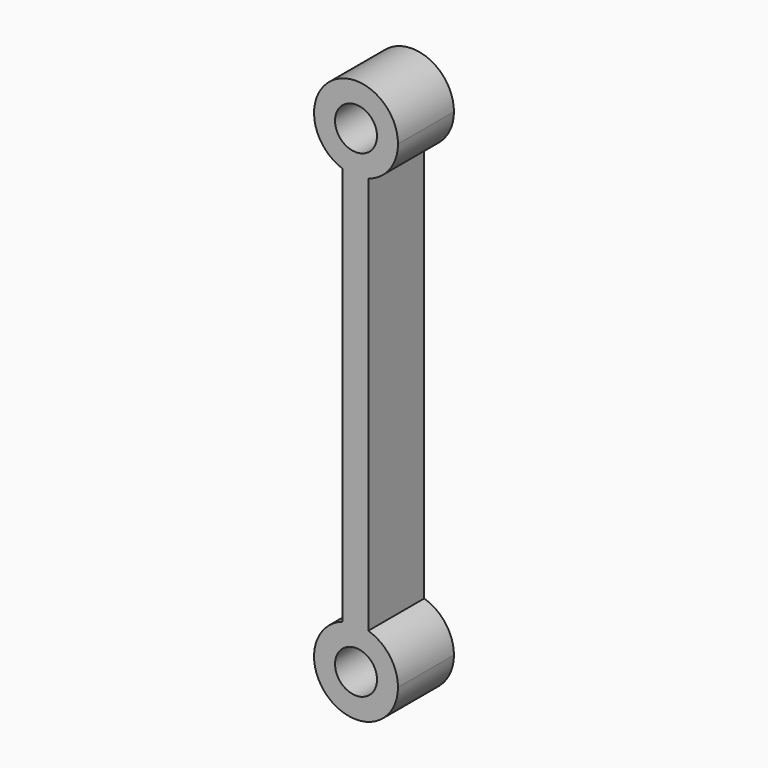
from build123d import *

# Parameters (mm, degrees)
F0_R     = 7.5
F1_DEPTH = 25


with BuildPart() as f1:
    # F0 (on Front) → F1 (new body)
    with BuildSketch(Plane.XZ):
        with BuildLine():
            ThreePointArc((9.931083, 39.83301), (17.605205, 45.254933), (20.548185, 54.1784))
            ThreePointArc((20.548185, 54.1784), (-3.222622, 66.346923), (0.805126, 39.948032))
            ThreePointArc((0.805126, 39.948032), (5.359144, 39.179592), (9.931083, 39.83301))
        make_face()
        with Locations((5.548185, 54.1784)):
            Circle(F0_R, mode=Mode.SUBTRACT)
        with BuildLine():
            ThreePointArc((9.931083, 39.83301), (5.359144, 39.179592), (0.805126, 39.948032))
            Line((0.805126, 39.948032), (0.805126, -102.591231))
            ThreePointArc((0.805126, -102.591231), (5.359144, -101.822791), (9.931083, -102.47621))
            Line((9.931083, -102.47621), (9.931083, 39.83301))
        make_face()
        with BuildLine():
            ThreePointArc((9.931083, -102.47621), (5.359144, -101.822791), (0.805126, -102.591231))
            ThreePointArc((0.805126, -102.591231), (-3.222622, -128.990122), (20.548185, -116.8216))
            ThreePointArc((20.548185, -116.8216), (17.605205, -107.898132), (9.931083, -102.47621))
        make_face()
        with Locations((5.548185, -116.8216)):
            Circle(F0_R, mode=Mode.SUBTRACT)
    extrude(amount=F1_DEPTH)


solid = f1.part
